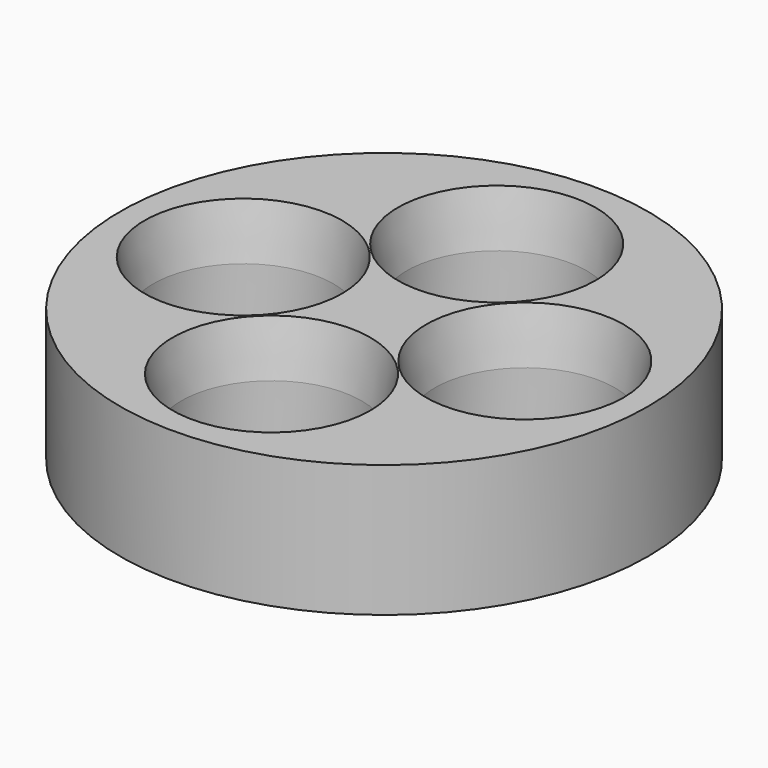
from build123d import *

# Parameters (mm, degrees)
F0_R       = 38.1
F0_R_2     = 3.175
F0_R_3     = 13
F1_DEPTH   = 19.05
F2_DEPTH   = 2.54
F3_SIZE2   = 1.27
F3_SIZE    = 7.62
F3_2_SIZE2 = 1.27
F3_2_SIZE  = 7.62
F3_3_SIZE2 = 1.27
F3_3_SIZE  = 7.62
F3_4_SIZE2 = 1.27
F3_4_SIZE  = 7.62


with BuildPart() as f1:
    # F0 (on Top) → F1 (new body)
    with BuildSketch(Plane.XY):
        Circle(F0_R)
        with Locations((-21.5526146906, -21.5526146906)):
            Circle(F0_R_2, mode=Mode.SUBTRACT)
        with Locations((0, -20.32)):
            Circle(F0_R_3, mode=Mode.SUBTRACT)
        with Locations((21.5526146906, -21.5526146906)):
            Circle(F0_R_2, mode=Mode.SUBTRACT)
        with Locations((-20.32, 0)):
            Circle(F0_R_3, mode=Mode.SUBTRACT)
        with Locations((-21.5526146906, 21.5526146906)):
            Circle(F0_R_2, mode=Mode.SUBTRACT)
        with Locations((20.32, 0)):
            Circle(F0_R_3, mode=Mode.SUBTRACT)
        with Locations((0, 20.32)):
            Circle(F0_R_3, mode=Mode.SUBTRACT)
        with Locations((21.5526146906, 21.5526146906)):
            Circle(F0_R_2, mode=Mode.SUBTRACT)
        with Locations((-21.5526146906, 21.5526146906)):
            Circle(F0_R_2)
        with Locations((-21.5526146906, -21.5526146906)):
            Circle(F0_R_2)
        with Locations((21.5526146906, -21.5526146906)):
            Circle(F0_R_2)
        with Locations((21.5526146906, 21.5526146906)):
            Circle(F0_R_2)
    extrude(amount=F1_DEPTH)

    # F0 (on Top) → F2 (join)
    with BuildSketch(Plane.XY):
        Circle(F0_R)
        with Locations((-21.5526146906, -21.5526146906)):
            Circle(F0_R_2, mode=Mode.SUBTRACT)
        with Locations((0, -20.32)):
            Circle(F0_R_3, mode=Mode.SUBTRACT)
        with Locations((21.5526146906, -21.5526146906)):
            Circle(F0_R_2, mode=Mode.SUBTRACT)
        with Locations((-20.32, 0)):
            Circle(F0_R_3, mode=Mode.SUBTRACT)
        with Locations((-21.5526146906, 21.5526146906)):
            Circle(F0_R_2, mode=Mode.SUBTRACT)
        with Locations((20.32, 0)):
            Circle(F0_R_3, mode=Mode.SUBTRACT)
        with Locations((0, 20.32)):
            Circle(F0_R_3, mode=Mode.SUBTRACT)
        with Locations((21.5526146906, 21.5526146906)):
            Circle(F0_R_2, mode=Mode.SUBTRACT)
        with Locations((-20.32, 0)):
            Circle(F0_R_3)
        with Locations((0, -20.32)):
            Circle(F0_R_3)
        with Locations((20.32, 0)):
            Circle(F0_R_3)
        with Locations((0, 20.32)):
            Circle(F0_R_3)
    extrude(amount=F2_DEPTH)

    # F3
    f3_edges = [f1.edges().sort_by_distance(p)[0] for p in [
        (-13, -20.32, 19.05),
    ]]
    f3_side = f1.faces().sort_by_distance((-13, -20.32, 10.795))[0]
    chamfer(f3_edges, length=F3_SIZE, length2=F3_SIZE2, reference=f3_side)

    # F3#2
    f3_2_edges = [f1.edges().sort_by_distance(p)[0] for p in [
        (-33.32, 0, 19.05),
    ]]
    f3_2_side = f1.faces().sort_by_distance((-33.32, 0, 10.795))[0]
    chamfer(f3_2_edges, length=F3_2_SIZE, length2=F3_2_SIZE2, reference=f3_2_side)

    # F3#3
    f3_3_edges = [f1.edges().sort_by_distance(p)[0] for p in [
        (-13, 20.32, 19.05),
    ]]
    f3_3_side = f1.faces().sort_by_distance((-13, 20.32, 10.795))[0]
    chamfer(f3_3_edges, length=F3_3_SIZE, length2=F3_3_SIZE2, reference=f3_3_side)

    # F3#4
    f3_4_edges = [f1.edges().sort_by_distance(p)[0] for p in [
        (7.32, 0, 19.05),
    ]]
    f3_4_side = f1.faces().sort_by_distance((7.32, 0, 10.795))[0]
    chamfer(f3_4_edges, length=F3_4_SIZE, length2=F3_4_SIZE2, reference=f3_4_side)


solid = f1.part
